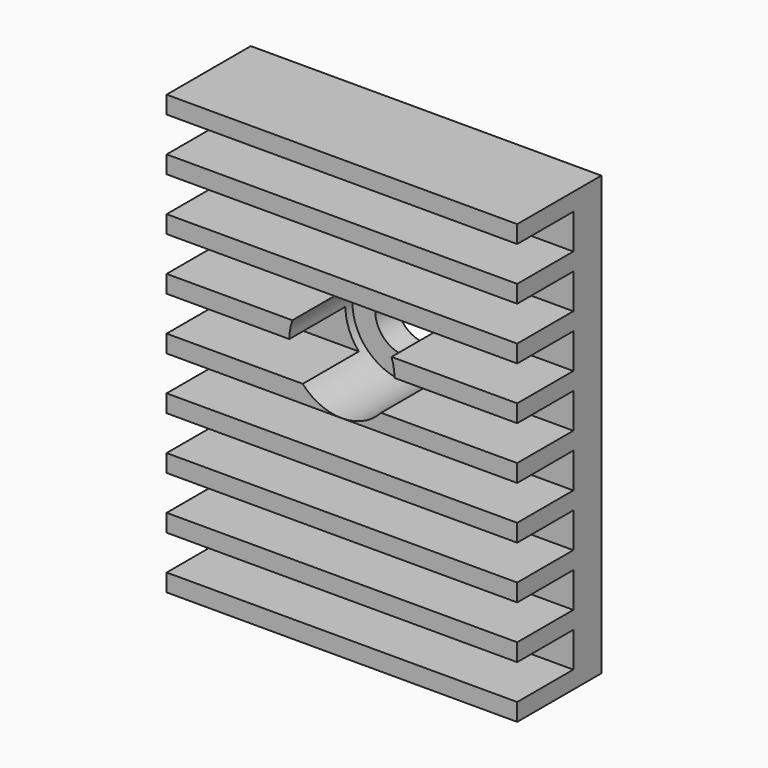
from build123d import *

# Parameters (mm, degrees)
SKETCH_W            = 20
SKETCH_H            = 25
PAD_DEPTH           = 6
SKETCH001_R         = 1.7
POCKET_DEPTH        = 10
SKETCH002_W         = 2
SKETCH002_H         = 4
POCKET001_DEPTH     = 25
LINEARPATTERN_COUNT = 8
LINEARPATTERN_PITCH = 3
SKETCH003_R         = 3
POCKET002_DEPTH     = 4.5


with BuildPart() as part:
    # Sketch → Pad (new body)
    with BuildSketch(Plane.XZ):
        Rectangle(SKETCH_W, SKETCH_H)
    extrude(amount=PAD_DEPTH)

    # Sketch001 (on Face6 of Pad) → Pocket (cut)
    with BuildSketch(Plane.XZ.offset(6)):
        with Locations((0, 2.5)):
            Circle(SKETCH001_R)
    extrude(amount=-POCKET_DEPTH, mode=Mode.SUBTRACT)

    # Sketch002 (on Face2 of Pocket) → Pocket001 (cut)
    with BuildSketch(Plane(origin=(-10, 0, 0), x_dir=(0, 0, -1), z_dir=(-1, 0, 0))):
        with Locations((-10.5, 4)):
            Rectangle(SKETCH002_W, SKETCH002_H)
    pocket001 = extrude(amount=-POCKET001_DEPTH, mode=Mode.SUBTRACT)

    # LinearPattern: Pocket001 ×8
    with Locations(*[(0, 0, -i * LINEARPATTERN_PITCH) for i in range(1, LINEARPATTERN_COUNT)]):
        add(pocket001, mode=Mode.SUBTRACT)

    # Sketch003 (on Face40 of LinearPattern) → Pocket002 (cut)
    with BuildSketch(Plane.XZ.offset(6)):
        with Locations((0, 2.5)):
            Circle(SKETCH003_R)
    extrude(amount=-POCKET002_DEPTH, mode=Mode.SUBTRACT)


with BuildPart() as part_1:
    # Body002 placement: moved
    add(part.part.moved(Location((0, 100, 0))))


solid = part_1.part
